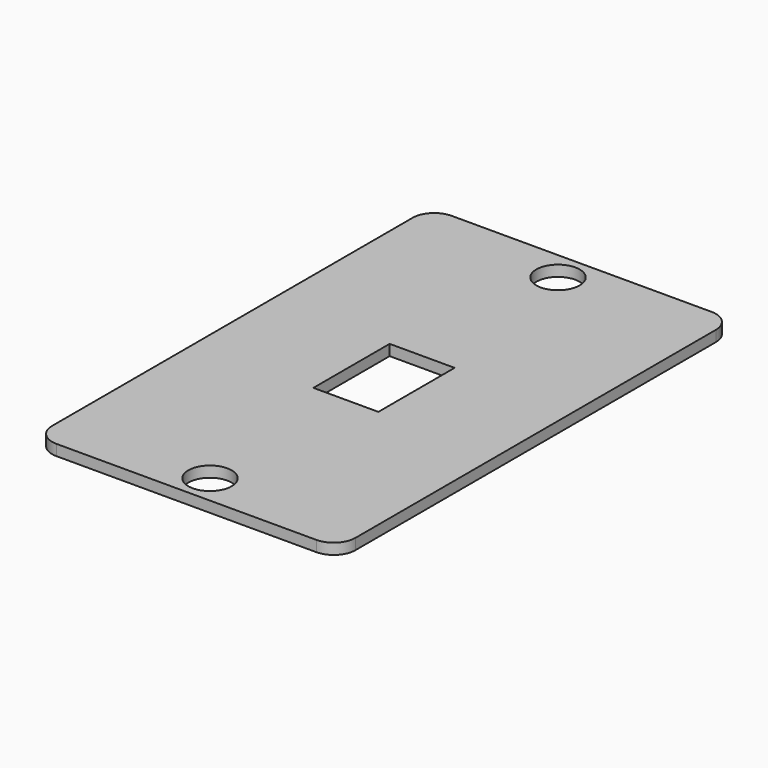
from build123d import *

# Parameters (mm, degrees)
F0_R     = 5
F0_W     = 15
F0_H     = 22
F1_DEPTH = 2.5


with BuildPart() as f1:
    # F0 (on Top) → F1 (new body)
    with BuildSketch(Plane.XY):
        with BuildLine():
            Line((30, 57), (-30, 57))
            ThreePointArc((-30, 57), (-33.535534, 55.535534), (-35, 52))
            Line((-35, 52), (-35, -52))
            ThreePointArc((-35, -52), (-33.535534, -55.535534), (-30, -57))
            Line((-30, -57), (30, -57))
            ThreePointArc((30, -57), (33.535534, -55.535534), (35, -52))
            Line((35, -52), (35, 52))
            ThreePointArc((35, 52), (33.535534, 55.535534), (30, 57))
        make_face()
        with Locations((0, -50.2)):
            Circle(F0_R, mode=Mode.SUBTRACT)
        Rectangle(F0_W, F0_H, mode=Mode.SUBTRACT)
        with Locations((0, 50.2)):
            Circle(F0_R, mode=Mode.SUBTRACT)
    extrude(amount=F1_DEPTH)


solid = f1.part
